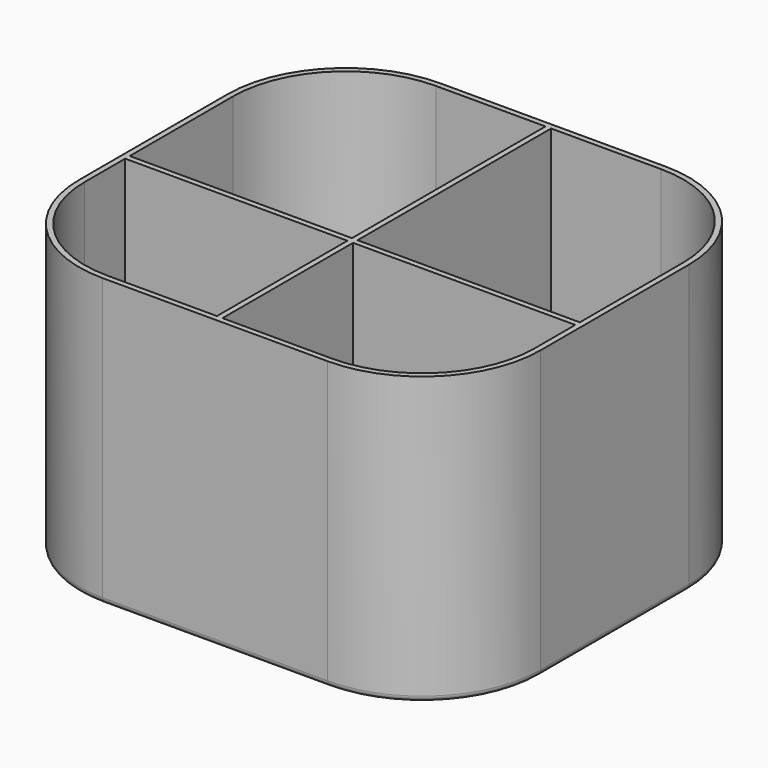
from build123d import *

# Parameters (mm, degrees)
PAD_DEPTH    = 50
THICKNESS_T  = 1
SKETCH001_W  = 80
SKETCH001_H  = 1
PAD001_DEPTH = 50
SKETCH002_W  = 1
SKETCH002_H  = 29
PAD002_DEPTH = 50
SKETCH003_W  = 1
SKETCH003_H  = 43
PAD003_DEPTH = 50


with BuildPart() as part:
    # Sketch → Pad (new body)
    with BuildSketch(Plane.XY):
        with BuildLine():
            Line((-20, 36.5), (20, 36.5))
            ThreePointArc((40, 16.5), (34.142136, 30.642136), (20, 36.5))
            Line((40, 16.5), (40, -16.5))
            ThreePointArc((20, -36.5), (34.142136, -30.642136), (40, -16.5))
            Line((20, -36.5), (-20, -36.5))
            ThreePointArc((-40, -16.5), (-34.142136, -30.642136), (-20, -36.5))
            Line((-40, -16.5), (-40, 16.5))
            ThreePointArc((-20, 36.5), (-34.142136, 30.642136), (-40, 16.5))
        make_face()
    extrude(amount=PAD_DEPTH)

    # Thickness
    thickness_openings = [part.faces().sort_by_distance(p)[0] for p in [
        (0, 0, 50),
    ]]
    offset(amount=THICKNESS_T, openings=thickness_openings)

    # Sketch001 (on Face9 of Thickness) → Pad001 (join)
    with BuildSketch(Plane.XY):
        with Locations((0, -7)):
            Rectangle(SKETCH001_W, SKETCH001_H)
    extrude(amount=PAD001_DEPTH)

    # Sketch002 (on Face24 of Pad001) → Pad002 (join)
    with BuildSketch(Plane.XY):
        with Locations((0, -22)):
            Rectangle(SKETCH002_W, SKETCH002_H)
    extrude(amount=PAD002_DEPTH)

    # Sketch003 (on Face4 of Pad002) → Pad003 (join)
    with BuildSketch(Plane.XY):
        with Locations((0, 15)):
            Rectangle(SKETCH003_W, SKETCH003_H)
    extrude(amount=PAD003_DEPTH)


solid = part.part
